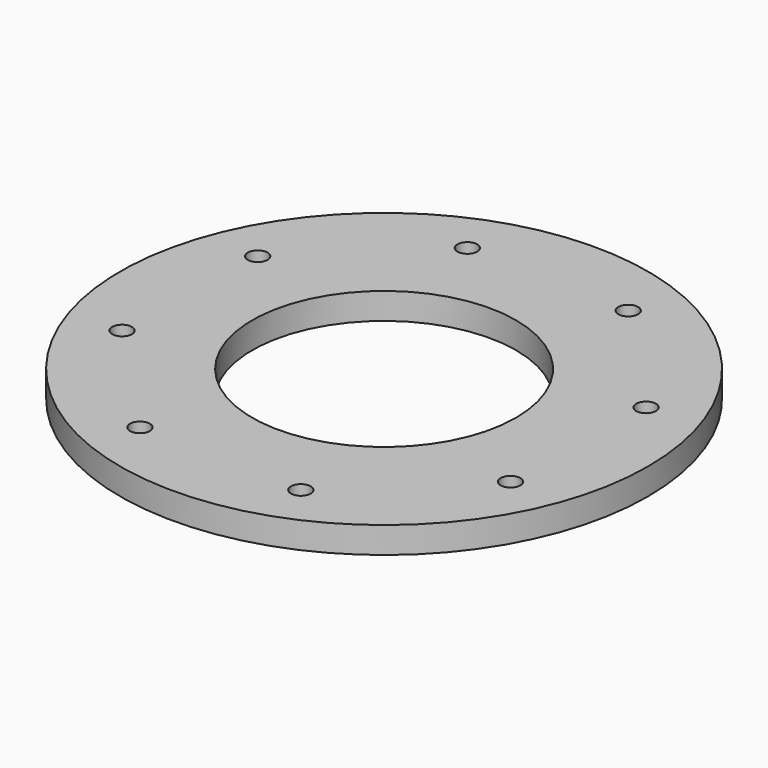
from build123d import *

# Parameters (mm, degrees)
F0_R     = 127
F0_R_2   = 4.7625
F0_R_3   = 63.5
F1_DEPTH = 12.7


with BuildPart() as f1:
    # F0 (on Top) → F1 (new body)
    with BuildSketch(Plane.XY):
        Circle(F0_R)
        with Locations((-41.954646, -94.386012)):
            Circle(F0_R_2, mode=Mode.SUBTRACT)
        with Locations((-96.407404, -37.074575)):
            Circle(F0_R_2, mode=Mode.SUBTRACT)
        with Locations((37.074575, -96.407404)):
            Circle(F0_R_2, mode=Mode.SUBTRACT)
        with Locations((94.386012, -41.954646)):
            Circle(F0_R_2, mode=Mode.SUBTRACT)
        with Locations((-94.386012, 41.954646)):
            Circle(F0_R_2, mode=Mode.SUBTRACT)
        with Locations((-37.074575, 96.407404)):
            Circle(F0_R_2, mode=Mode.SUBTRACT)
        Circle(F0_R_3, mode=Mode.SUBTRACT)
        with Locations((96.407404, 37.074575)):
            Circle(F0_R_2, mode=Mode.SUBTRACT)
        with Locations((41.954646, 94.386012)):
            Circle(F0_R_2, mode=Mode.SUBTRACT)
    extrude(amount=F1_DEPTH)


solid = f1.part
